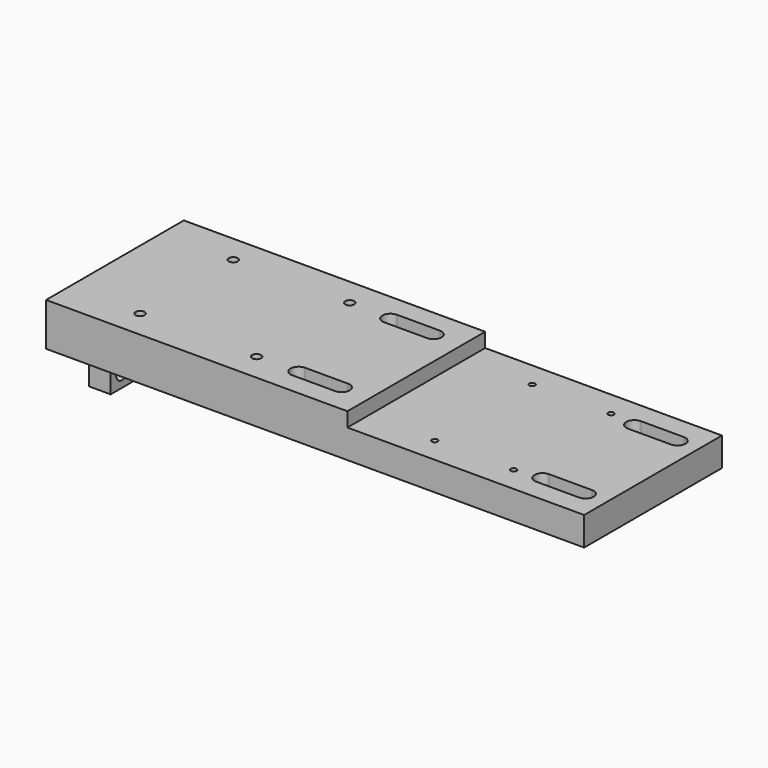
from build123d import *

# Parameters (mm, degrees)
F0_W      = 476.25
F0_H      = 152.4
F1_DEPTH  = 38.1
F2_W      = 209.55
F2_H      = 152.4
F3_DEPTH  = 12.7
F5_DEPTH  = 38.101
F7_D      = 7.9375
F8_D      = 5.1054
F9_W      = 19.05
F9_H      = 88.9
F10_DEPTH = 38.1
F12_D     = 13.49248


with BuildPart() as f1:
    # F0 (on Top) → F1 (new body)
    with BuildSketch(Plane.XY):
        Rectangle(F0_W, F0_H)
    extrude(amount=F1_DEPTH)

    # F2 (on face) → F3 (cut)
    with BuildSketch(Plane.XY.offset(38.1)):
        with Locations((133.35, 0)):
            Rectangle(F2_W, F2_H)
    extrude(amount=-F3_DEPTH, mode=Mode.SUBTRACT)

    # F4 (on face) → F5 (cut, through all)
    with BuildSketch(Plane.XY.offset(38.1)):
        with BuildLine():
            Line((3.175, -43.65625), (-34.925, -43.65625))
            ThreePointArc((-34.925, -43.65625), (-42.06875, -50.8), (-34.925, -57.94375))
            Line((-34.925, -57.94375), (3.175, -57.94375))
            ThreePointArc((3.175, -57.94375), (10.31875, -50.8), (3.175, -43.65625))
        make_face()
        with BuildLine():
            Line((219.075, -43.65625), (180.975, -43.65625))
            ThreePointArc((180.975, -43.65625), (173.83125, -50.8), (180.975, -57.94375))
            Line((180.975, -57.94375), (219.075, -57.94375))
            ThreePointArc((219.075, -57.94375), (226.21875, -50.8), (219.075, -43.65625))
        make_face()
        with BuildLine():
            ThreePointArc((-34.925, 57.94375), (-42.06875, 50.8), (-34.925, 43.65625))
            Line((-34.925, 43.65625), (3.175, 43.65625))
            ThreePointArc((3.175, 43.65625), (10.31875, 50.8), (3.175, 57.94375))
            Line((3.175, 57.94375), (-34.925, 57.94375))
        make_face()
        with BuildLine():
            ThreePointArc((180.975, 57.94375), (173.83125, 50.8), (180.975, 43.65625))
            Line((180.975, 43.65625), (219.075, 43.65625))
            ThreePointArc((219.075, 43.65625), (226.21875, 50.8), (219.075, 57.94375))
            Line((219.075, 57.94375), (180.975, 57.94375))
        make_face()
    extrude(amount=-F5_DEPTH, mode=Mode.SUBTRACT)

    # F7 (through all)
    with Locations(Plane.XY.offset(38.1)):
        with Locations((-174.625, 51.562), (-71.501, 51.562), (-174.625, -51.562), (-71.501, -51.562)):
            Hole(F7_D / 2)

    # F8 (through all)
    with Locations(Plane.XY.offset(38.1)):
        with Locations((88.011, 53.848), (157.861, 53.848), (88.011, -53.848), (157.861, -53.848)):
            Hole(F8_D / 2)

    # F9 (on face) → F10 (join)
    with BuildSketch(Plane(origin=(0, 0, 0), x_dir=(1, 0, 0), z_dir=(0, 0, -1))):
        with Locations((-215.9, 0)):
            Rectangle(F9_W, F9_H)
    extrude(amount=F10_DEPTH)

    # F12 (through all)
    with Locations(Plane(origin=(-225.425, 0, 0), x_dir=(0, -1, 0), z_dir=(-1, 0, 0))):
        with Locations((-31.75, -25.4), (31.75, -25.4)):
            Hole(F12_D / 2)


solid = f1.part
